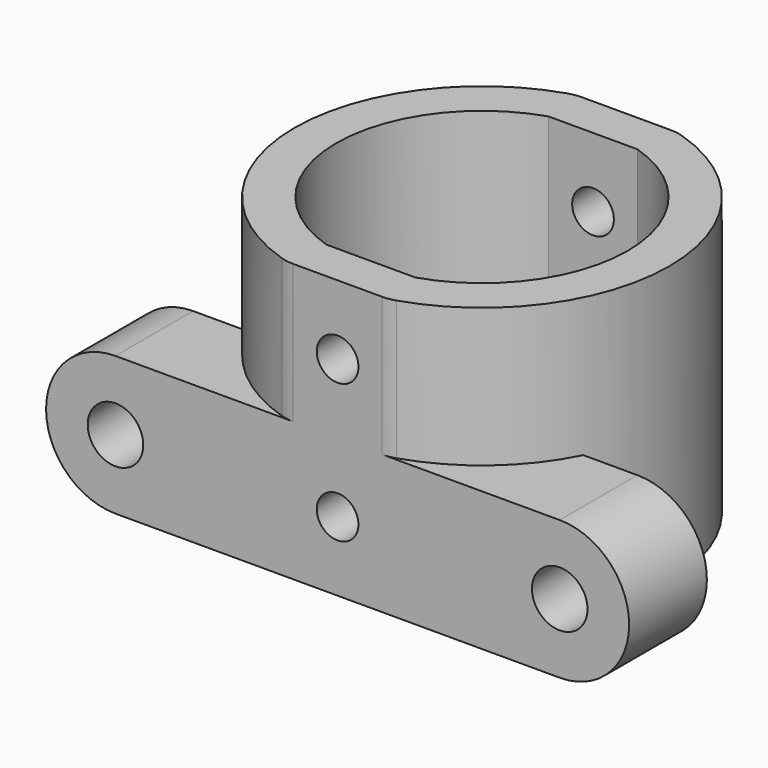
from build123d import *

# Parameters (mm, degrees)
PAD_DEPTH         = 20
SKETCH003_R       = 2
PAD001_DEPTH      = 7
POCKET001_DEPTH   = 20.001
SKETCH002_R       = 1.5
POCKET_DEPTH      = 13.001
POCKET_DEPTH_BACK = -13.001


with BuildPart() as part:
    # Binder → Pad (new body)
    with BuildSketch(Plane(origin=(0, 0, 0), x_dir=(0, 1, 0), z_dir=(0, 0, 1))):
        with BuildLine():
            ThreePointArc((12.857143, 4.116294), (0, 13.5), (-12.857143, 4.116294))
            ThreePointArc((-12.857143, 4.116294), (-12.964071, 3.664472), (-13, 3.201562))
            Line((-13, 3.201562), (-13, -3.201562))
            ThreePointArc((-13, -3.201562), (-12.964071, -3.664472), (-12.857143, -4.116294))
            ThreePointArc((-12.857143, -4.116294), (0, -13.5), (12.857143, -4.116294))
            ThreePointArc((12.857143, -4.116294), (12.964071, -3.664472), (13, -3.201562))
            Line((13, -3.201562), (13, 3.201562))
            ThreePointArc((13, 3.201562), (12.964071, 3.664472), (12.857143, 4.116294))
        make_face()
    extrude(amount=PAD_DEPTH)

    # Sketch003 (on Face3 of Pad) → Pad001 (join)
    with BuildSketch(Plane.XZ.offset(13)):
        with BuildLine():
            ThreePointArc((16, 0), (21, 5), (16, 10))
            Line((16, 10), (-16, 10))
            ThreePointArc((-16, 10), (-21, 5), (-16, 0))
            Line((16, 0), (-16, 0))
        make_face()
        with Locations((16, 5)):
            Circle(SKETCH003_R, mode=Mode.SUBTRACT)
        with Locations((-16, 5)):
            Circle(SKETCH003_R, mode=Mode.SUBTRACT)
    extrude(amount=-PAD001_DEPTH)

    # Sketch → Pocket001 (cut, through all)
    with BuildSketch(Plane.XY):
        with BuildLine():
            ThreePointArc((-3.201562, 10), (-10.5, 0), (-3.201562, -10))
            Line((-3.201562, -10), (3.201562, -10))
            ThreePointArc((3.201562, -10), (10.5, 0), (3.201562, 10))
            Line((-3.201562, 10), (3.201562, 10))
        make_face()
    extrude(amount=POCKET001_DEPTH, mode=Mode.SUBTRACT)

    # Sketch002 → Pocket (cut, two sides)
    with BuildSketch(Plane.XZ) as pocket_sk:
        with Locations((0, 5)):
            Circle(SKETCH002_R)
        with Locations((0, 15)):
            Circle(SKETCH002_R)
    extrude(amount=-POCKET_DEPTH, mode=Mode.SUBTRACT)
    extrude(pocket_sk.sketch, amount=-POCKET_DEPTH_BACK, mode=Mode.SUBTRACT)


solid = part.part
